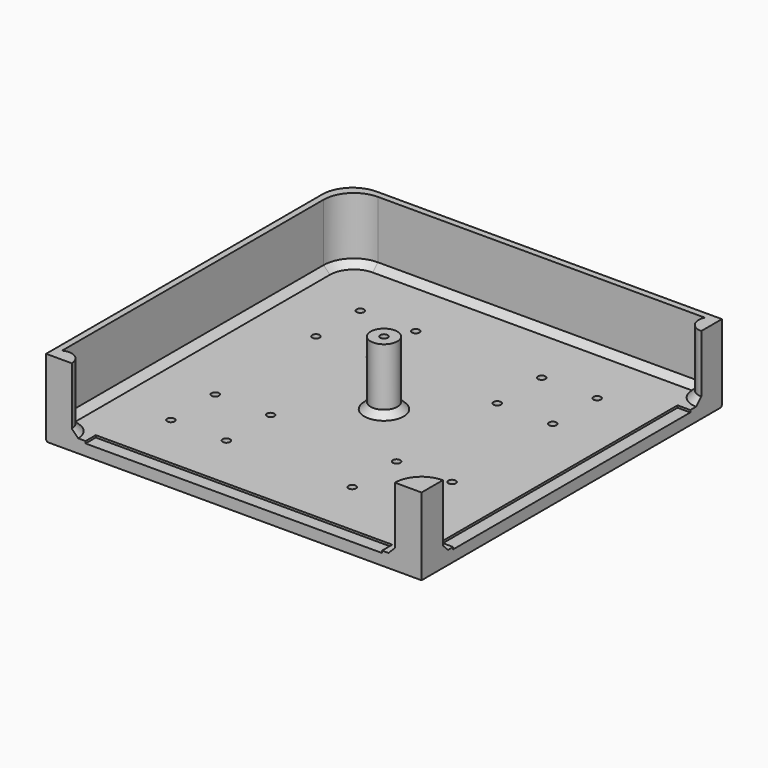
from build123d import *

# Parameters (mm, degrees)
PAD005_DEPTH         = 6.25
SKETCH009_R          = 6.25
PAD006_DEPTH         = 30
SKETCH010_R          = 1.75
POCKET002_DEPTH      = 100
POCKET002_DEPTH_BACK = 100
SKETCH011_R          = 3
POCKET003_DEPTH      = 3.25
CHAMFER003_SIZE      = 3
FILLET003_R          = 1
SKETCH012_W          = 6
SKETCH012_H          = 139
SKETCH012_W_2        = 139
SKETCH012_H_2        = 6
POCKET004_DEPTH      = 1
SKETCH019_R          = 3
POCKET008_DEPTH      = 100
POCKET008_DEPTH_BACK = 24
SKETCH020_R          = 1.75
POCKET009_DEPTH      = 100
POCKET009_DEPTH_BACK = 100


with BuildPart() as part:
    # Sketch008 → Pad005 (new body)
    with BuildSketch(Plane.XY):
        with BuildLine():
            Line((88, 88), (-73.833333, 88))
            ThreePointArc((-73.833333, 88), (-83.850679, 83.850679), (-88, 73.833333))
            Line((-88, 73.833333), (-88, -88))
            Line((-88, -88), (88, -88))
            Line((88, -88), (88, 88))
        make_face()
    extrude(amount=-PAD005_DEPTH)

    # Sketch009 → Pad006 (join)
    with BuildSketch(Plane.XY):
        Circle(SKETCH009_R)
        with BuildLine():
            Line((-88, -88), (-88, 73.833333))
            ThreePointArc((-73.833333, 88), (-83.850679, 83.850679), (-88, 73.833333))
            Line((-73.833333, 88), (88, 88))
            Line((88, 88), (88, 75.889985))
            ThreePointArc((82.442769, 85), (82.664384, 78.885188), (88, 75.889985))
            Line((-70.83277, 85), (82.442769, 85))
            ThreePointArc((-70.83277, 85), (-80.85048, 80.850878), (-85, 70.833333))
            Line((-85, -82.408681), (-85, 70.833333))
            ThreePointArc((-75.957213, -88), (-78.920301, -82.684108), (-85, -82.408681))
            Line((-88, -88), (-75.957213, -88))
        make_face()
        with BuildLine():
            ThreePointArc((88, -75.5), (79.161165, -79.161165), (75.5, -88))
            Line((88, -88), (75.5, -88))
            Line((88, -88), (88, -75.5))
        make_face()
    extrude(amount=PAD006_DEPTH)

    # Sketch010 → Pocket002 (cut, two sides)
    with BuildSketch(Plane.XY) as pocket002_sk:
        with Locations((-55.5, 55.5)):
            Circle(SKETCH010_R)
        with Locations((-29.5, 55.5)):
            Circle(SKETCH010_R)
        with Locations((-29.5, 29.5)):
            Circle(SKETCH010_R)
        with Locations((-55.5, 29.5)):
            Circle(SKETCH010_R)
        with Locations((29.5, 55.5)):
            Circle(SKETCH010_R)
        with Locations((55.5, 55.5)):
            Circle(SKETCH010_R)
        with Locations((55.5, 29.5)):
            Circle(SKETCH010_R)
        with Locations((29.5, 29.5)):
            Circle(SKETCH010_R)
        with Locations((29.5, -29.5)):
            Circle(SKETCH010_R)
        with Locations((55.5, -29.5)):
            Circle(SKETCH010_R)
        with Locations((55.5, -55.5)):
            Circle(SKETCH010_R)
        with Locations((29.5, -55.5)):
            Circle(SKETCH010_R)
        with Locations((-55.5, -29.5)):
            Circle(SKETCH010_R)
        with Locations((-29.5, -29.5)):
            Circle(SKETCH010_R)
        with Locations((-29.5, -55.5)):
            Circle(SKETCH010_R)
        with Locations((-55.5, -55.5)):
            Circle(SKETCH010_R)
    extrude(amount=-POCKET002_DEPTH, mode=Mode.SUBTRACT)
    extrude(pocket002_sk.sketch, amount=POCKET002_DEPTH_BACK, mode=Mode.SUBTRACT)

    # Sketch011 → Pocket003 (cut)
    with BuildSketch(Plane.XY.offset(-6.25)):
        with Locations((-55.5, 55.5)):
            Circle(SKETCH011_R)
        with Locations((-29.5, 55.5)):
            Circle(SKETCH011_R)
        with Locations((-29.5, 29.5)):
            Circle(SKETCH011_R)
        with Locations((-55.5, 29.5)):
            Circle(SKETCH011_R)
        with Locations((29.5, 55.5)):
            Circle(SKETCH011_R)
        with Locations((55.5, 55.5)):
            Circle(SKETCH011_R)
        with Locations((55.5, 29.5)):
            Circle(SKETCH011_R)
        with Locations((29.5, 29.5)):
            Circle(SKETCH011_R)
        with Locations((29.5, -29.5)):
            Circle(SKETCH011_R)
        with Locations((55.5, -29.5)):
            Circle(SKETCH011_R)
        with Locations((55.5, -55.5)):
            Circle(SKETCH011_R)
        with Locations((29.5, -55.5)):
            Circle(SKETCH011_R)
        with Locations((-55.5, -29.5)):
            Circle(SKETCH011_R)
        with Locations((-29.5, -29.5)):
            Circle(SKETCH011_R)
        with Locations((-29.5, -55.5)):
            Circle(SKETCH011_R)
        with Locations((-55.5, -55.5)):
            Circle(SKETCH011_R)
    extrude(amount=POCKET003_DEPTH, mode=Mode.SUBTRACT)

    # Chamfer003
    chamfer003_edges = [part.edges().sort_by_distance(p)[0] for p in [
        (-6.25, 0, 0),
        (79.161165, -79.161165, 0),
        (82.664384, 78.885188, 0),
        (-78.920301, -82.684108, 0),
        (5.804999, 85, 0),
    ]]
    chamfer(chamfer003_edges, length=CHAMFER003_SIZE)

    # Fillet003
    fillet003_edges = [part.edges().sort_by_distance(p)[0] for p in [
        (-88, -7.083333, -6.25),
    ]]
    fillet(fillet003_edges, radius=FILLET003_R)

    # Sketch012 → Pocket004 (cut)
    with BuildSketch(Plane.XY):
        with Locations((85, 0)):
            Rectangle(SKETCH012_W, SKETCH012_H)
        with Locations((0, -85)):
            Rectangle(SKETCH012_W_2, SKETCH012_H_2)
    extrude(amount=-POCKET004_DEPTH, mode=Mode.SUBTRACT)

    # Sketch019 → Pocket008 (cut, two sides)
    with BuildSketch(Plane.XY) as pocket008_sk:
        Circle(SKETCH019_R)
    extrude(amount=-POCKET008_DEPTH, mode=Mode.SUBTRACT)
    extrude(pocket008_sk.sketch, amount=POCKET008_DEPTH_BACK, mode=Mode.SUBTRACT)

    # Sketch020 → Pocket009 (cut, two sides)
    with BuildSketch(Plane.XY) as pocket009_sk:
        Circle(SKETCH020_R)
    extrude(amount=-POCKET009_DEPTH, mode=Mode.SUBTRACT)
    extrude(pocket009_sk.sketch, amount=POCKET009_DEPTH_BACK, mode=Mode.SUBTRACT)


with BuildPart() as part_1:
    # Body002 placement: moved
    add(part.part.moved(Location((-88, 88, -30))))


solid = part_1.part
